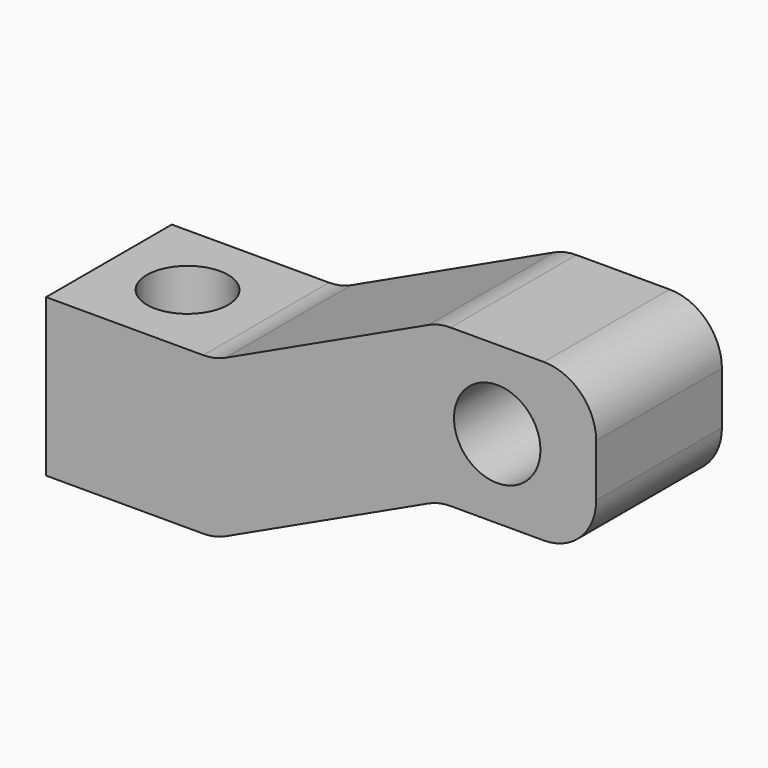
from build123d import *

# Parameters (mm, degrees)
F1_DEPTH = 6
F2_R     = 1.55
F3_DEPTH = 6
F4_R     = 1.65
F5_DEPTH = 6


with BuildPart() as f1:
    # F0 (on Front) → F1 (new body)
    with BuildSketch(Plane.XZ):
        with BuildLine():
            Line((0, 6), (0, 0))
            Line((0, 0), (6, 0))
            ThreePointArc((6, 0), (6.433861, 0.047626), (6.847059, 0.188235))
            Line((6.847059, 0.188235), (14.597386, 3.811765))
            ThreePointArc((14.597386, 3.811765), (15.010584, 3.952374), (15.444444, 4))
            Line((15.444444, 4), (19, 4))
            ThreePointArc((19, 4), (20.414214, 4.585786), (21, 6))
            Line((21, 6), (21, 8))
            ThreePointArc((21, 8), (20.414214, 9.414214), (19, 10))
            Line((19, 10), (15.444444, 10))
            ThreePointArc((15.444444, 10), (15.010584, 9.952374), (14.597386, 9.811765))
            Line((14.597386, 9.811765), (6.847059, 6.188235))
            ThreePointArc((6.847059, 6.188235), (6.433861, 6.047626), (6, 6))
            Line((6, 6), (0, 6))
        make_face()
    extrude(amount=F1_DEPTH)

    # F2 (on face) → F3 (cut, through all)
    with BuildSketch(Plane.XY.offset(6)):
        with Locations((3, -3)):
            Circle(F2_R)
    extrude(amount=-F3_DEPTH, mode=Mode.SUBTRACT)

    # F4 (on face) → F5 (cut, through all)
    with BuildSketch(Plane.XZ.offset(6)):
        with Locations((17.222222, 7)):
            Circle(F4_R)
    extrude(amount=-F5_DEPTH, mode=Mode.SUBTRACT)


solid = f1.part
